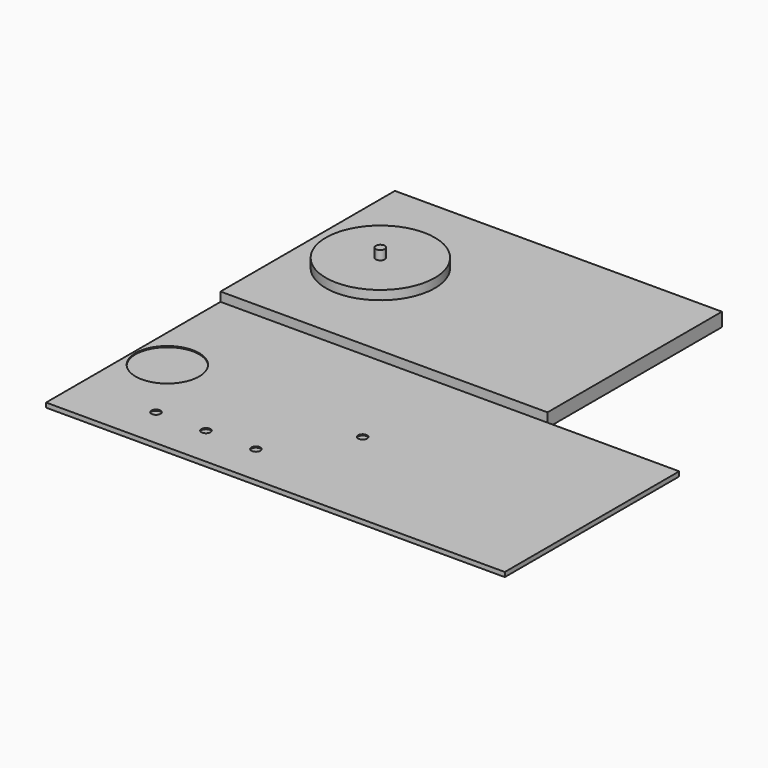
from build123d import *

# Parameters (mm, degrees)
F0_W     = 457.2
F0_H     = 304.8
F1_DEPTH = 19.05
F2_R     = 76.2
F2_R_2   = 6.35
F3_DEPTH = 12.7
F4_DEPTH = 25.4
F6_DEPTH = 6.35
F7_DEPTH = 4.7625


with BuildPart() as f1:
    # F0 (on Top) → F1 (new body)
    with BuildSketch(Plane.XY):
        with Locations((228.6, 152.4)):
            Rectangle(F0_W, F0_H)
    extrude(amount=F1_DEPTH)


with BuildPart() as f3:
    # F2 (on face) → F3 (new body)
    with BuildSketch(Plane.XY.offset(19.05)):
        with Locations((101.6, 152.4)):
            Circle(F2_R)
        with Locations((101.6, 152.4)):
            Circle(F2_R_2, mode=Mode.SUBTRACT)
    extrude(amount=F3_DEPTH)


with BuildPart() as f4:
    # F2 (on face) → F4 (new body)
    with BuildSketch(Plane.XY.offset(19.05)):
        with Locations((101.6, 152.4)):
            Circle(F2_R_2)
    extrude(amount=F4_DEPTH)


with BuildPart() as f6:
    # F5 (on Top) → F6 (new body)
    with BuildSketch(Plane.XY):
        with BuildLine():
            Line((641.35, 0), (320.675, 0))
            Line((320.675, 0), (320.675, -16.5491942316))
            Line((320.675, -16.5491942316), (320.675, -146.05))
            ThreePointArc((320.675, -146.05), (325.1651280605, -147.9098719395), (327.025, -152.4))
            ThreePointArc((327.025, -152.4), (325.1651280605, -156.8901280605), (320.675, -158.75))
            Line((320.675, -158.75), (320.675, -247.65))
            Line((320.675, -247.65), (320.675, -304.8))
            Line((320.675, -304.8), (641.35, -304.8))
            Line((641.35, -304.8), (641.35, 0))
        make_face()
        with BuildLine():
            Line((320.675, 0), (0, 0))
            Line((0, 0), (0, -81.5177187324))
            Line((0, -81.5177187324), (0, -152.4))
            Line((0, -152.4), (0, -247.65))
            Line((0, -247.65), (101.6, -247.65))
            ThreePointArc((101.6, -247.65), (107.95, -241.3), (114.3, -247.65))
            Line((114.3, -247.65), (171.45, -247.65))
            ThreePointArc((171.45, -247.65), (177.8, -241.3), (184.15, -247.65))
            Line((184.15, -247.65), (241.3, -247.65))
            ThreePointArc((241.3, -247.65), (247.65, -241.3), (254, -247.65))
            Line((254, -247.65), (320.675, -247.65))
            Line((320.675, -247.65), (320.675, -158.75))
            ThreePointArc((320.675, -158.75), (314.325, -152.4), (320.675, -146.05))
            Line((320.675, -146.05), (320.675, -16.5491942316))
            Line((320.675, -16.5491942316), (320.675, 0))
        make_face()
        with BuildLine():
            ThreePointArc((92.075, -152.4), (47.625, -196.85), (3.175, -152.4))
            ThreePointArc((3.175, -152.4), (47.625, -107.95), (92.075, -152.4))
        make_face(mode=Mode.SUBTRACT)
        with BuildLine():
            Line((101.6, -247.65), (0, -247.65))
            Line((0, -247.65), (0, -304.8))
            Line((0, -304.8), (320.675, -304.8))
            Line((320.675, -304.8), (320.675, -247.65))
            Line((320.675, -247.65), (254, -247.65))
            ThreePointArc((254, -247.65), (247.65, -254), (241.3, -247.65))
            Line((241.3, -247.65), (184.15, -247.65))
            ThreePointArc((184.15, -247.65), (177.8, -254), (171.45, -247.65))
            Line((171.45, -247.65), (114.3, -247.65))
            ThreePointArc((114.3, -247.65), (107.95, -254), (101.6, -247.65))
        make_face()
        with BuildLine():
            Line((320.675, 0), (0, 0))
            Line((0, 0), (0, -81.5177187324))
            Line((0, -81.5177187324), (0, -152.4))
            Line((0, -152.4), (0, -247.65))
            Line((0, -247.65), (101.6, -247.65))
            ThreePointArc((101.6, -247.65), (107.95, -241.3), (114.3, -247.65))
            Line((114.3, -247.65), (171.45, -247.65))
            ThreePointArc((171.45, -247.65), (177.8, -241.3), (184.15, -247.65))
            Line((184.15, -247.65), (241.3, -247.65))
            ThreePointArc((241.3, -247.65), (247.65, -241.3), (254, -247.65))
            Line((254, -247.65), (320.675, -247.65))
            Line((320.675, -247.65), (320.675, -158.75))
            ThreePointArc((320.675, -158.75), (314.325, -152.4), (320.675, -146.05))
            Line((320.675, -146.05), (320.675, -16.5491942316))
            Line((320.675, -16.5491942316), (320.675, 0))
        make_face()
        with BuildLine():
            ThreePointArc((92.075, -152.4), (47.625, -196.85), (3.175, -152.4))
            ThreePointArc((3.175, -152.4), (47.625, -107.95), (92.075, -152.4))
        make_face(mode=Mode.SUBTRACT)
    extrude(amount=F6_DEPTH)

    # F5 (on Top) → F7 (join)
    with BuildSketch(Plane.XY):
        with BuildLine():
            ThreePointArc((92.075, -152.4), (47.625, -107.95), (3.175, -152.4))
            ThreePointArc((3.175, -152.4), (47.625, -196.85), (92.075, -152.4))
        make_face()
        with BuildLine():
            Line((107.95, -247.65), (101.6, -247.65))
            ThreePointArc((101.6, -247.65), (107.95, -254), (114.3, -247.65))
            Line((114.3, -247.65), (107.95, -247.65))
        make_face()
        with BuildLine():
            ThreePointArc((114.3, -247.65), (107.95, -241.3), (101.6, -247.65))
            Line((101.6, -247.65), (107.95, -247.65))
            Line((107.95, -247.65), (114.3, -247.65))
        make_face()
        with BuildLine():
            Line((177.8, -247.65), (171.45, -247.65))
            ThreePointArc((171.45, -247.65), (177.8, -254), (184.15, -247.65))
            Line((184.15, -247.65), (177.8, -247.65))
        make_face()
        with BuildLine():
            ThreePointArc((184.15, -247.65), (177.8, -241.3), (171.45, -247.65))
            Line((171.45, -247.65), (177.8, -247.65))
            Line((177.8, -247.65), (184.15, -247.65))
        make_face()
        with BuildLine():
            ThreePointArc((241.3, -247.65), (247.65, -254), (254, -247.65))
            Line((254, -247.65), (247.65, -247.65))
            Line((247.65, -247.65), (241.3, -247.65))
        make_face()
        with BuildLine():
            Line((247.65, -247.65), (254, -247.65))
            ThreePointArc((254, -247.65), (247.65, -241.3), (241.3, -247.65))
            Line((241.3, -247.65), (247.65, -247.65))
        make_face()
        with BuildLine():
            ThreePointArc((327.025, -152.4), (325.1651280605, -147.9098719395), (320.675, -146.05))
            Line((320.675, -146.05), (320.675, -152.4))
            Line((320.675, -152.4), (320.675, -158.75))
            ThreePointArc((320.675, -158.75), (325.1651280605, -156.8901280605), (327.025, -152.4))
        make_face()
        with BuildLine():
            Line((320.675, -152.4), (320.675, -146.05))
            ThreePointArc((320.675, -146.05), (314.325, -152.4), (320.675, -158.75))
            Line((320.675, -158.75), (320.675, -152.4))
        make_face()
    extrude(amount=F7_DEPTH)


solid = Compound([f1.part, f3.part, f4.part, f6.part])
